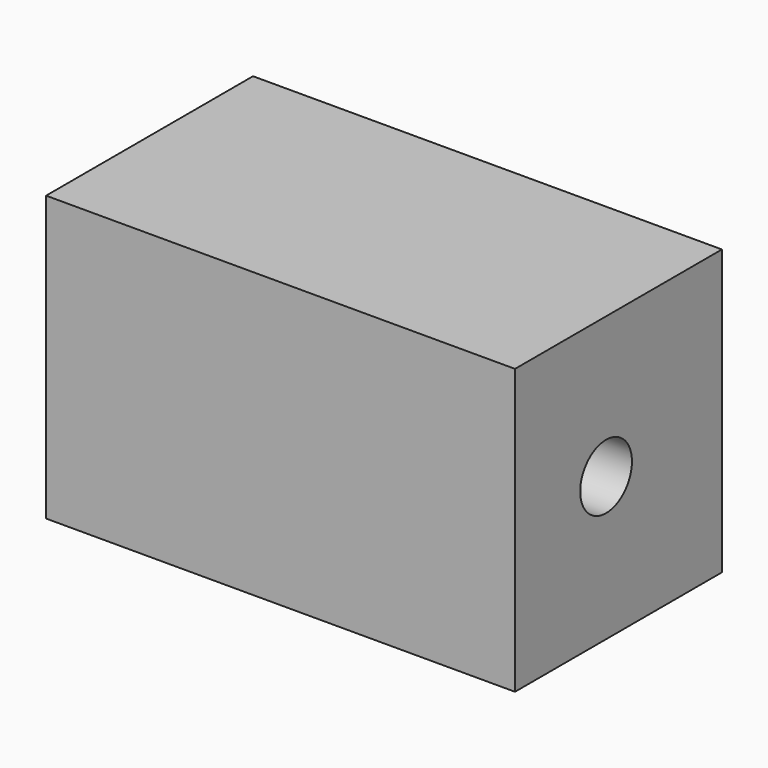
from build123d import *

# Parameters (mm, degrees)
F0_W     = 45.323744
F0_H     = 27.477518
F1_DEPTH = 25
F2_R     = 3.125
F3_DEPTH = 50


with BuildPart() as f1:
    # F0 (on Front) → F1 (new body)
    with BuildSketch(Plane.XZ):
        with Locations((-13.172213, 13.738759)):
            Rectangle(F0_W, F0_H)
    extrude(amount=F1_DEPTH)

    # F2 (on face) → F3 (cut, symmetric)
    with BuildSketch(Plane.YZ.offset(9.489659)):
        with Locations((-13.99685, 13.850922)):
            Circle(F2_R)
    extrude(amount=F3_DEPTH, both=True, mode=Mode.SUBTRACT)


solid = f1.part
